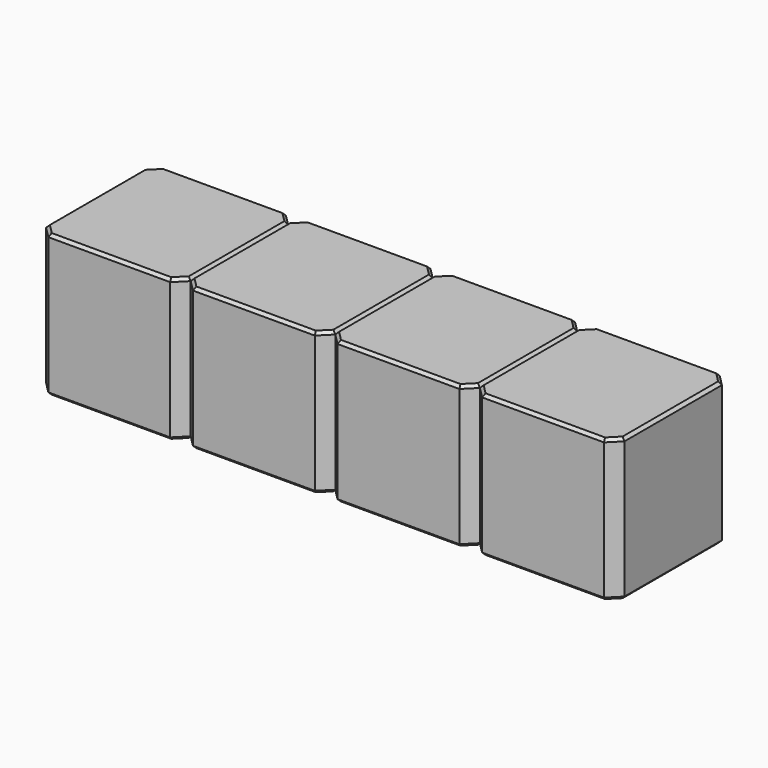
from build123d import *

# Parameters (mm, degrees)
SKETCH228_W      = 2.54
SKETCH228_H      = 2.54
PAD083_DEPTH     = 2.5
CHAMFER043_SIZE  = 0.2
CHAMFER045_SIZE  = 0.05
ARRAY021_X_COUNT = 4
ARRAY021_X_PITCH = 2.54


with BuildPart() as array021:
    # Sketch228 → Pad083 (new body)
    with BuildSketch(Plane.XY):
        Rectangle(SKETCH228_W, SKETCH228_H)
    extrude(amount=PAD083_DEPTH)

    # Chamfer043
    chamfer043_edges = [array021.edges().sort_by_distance(p)[0] for p in [
        (1.27, -1.27, 1.25),
        (-1.27, -1.27, 1.25),
        (1.27, 1.27, 1.25),
        (-1.27, 1.27, 1.25),
    ]]
    chamfer(chamfer043_edges, length=CHAMFER043_SIZE)

    # Chamfer045
    chamfer045_edges = [array021.edges().sort_by_distance(p)[0] for p in [
        (0, -1.27, 2.5),
        (-1.17, -1.17, 2.5),
        (1.17, -1.17, 2.5),
        (-1.27, 0, 2.5),
        (1.27, 0, 2.5),
        (-1.17, 1.17, 2.5),
        (1.17, 1.17, 2.5),
        (0, 1.27, 2.5),
        (0, -1.27, 0),
        (-1.17, -1.17, 0),
        (1.17, -1.17, 0),
        (-1.27, 0, 0),
        (1.27, 0, 0),
        (-1.17, 1.17, 0),
        (1.17, 1.17, 0),
        (0, 1.27, 0),
    ]]
    chamfer(chamfer045_edges, length=CHAMFER045_SIZE)


with BuildPart() as array021_copy1:
    # Array021 X: instance of Array021
    add(array021.part.moved(Location(Vector(1, 0, 0) * (1 * ARRAY021_X_PITCH))))


with BuildPart() as array021_copy2:
    # Array021 X: instance of Array021
    add(array021.part.moved(Location(Vector(1, 0, 0) * (2 * ARRAY021_X_PITCH))))


with BuildPart() as array021_copy3:
    # Array021 X: instance of Array021
    add(array021.part.moved(Location(Vector(1, 0, 0) * (3 * ARRAY021_X_PITCH))))


solid = Compound([array021.part, array021_copy1.part, array021_copy2.part, array021_copy3.part])
